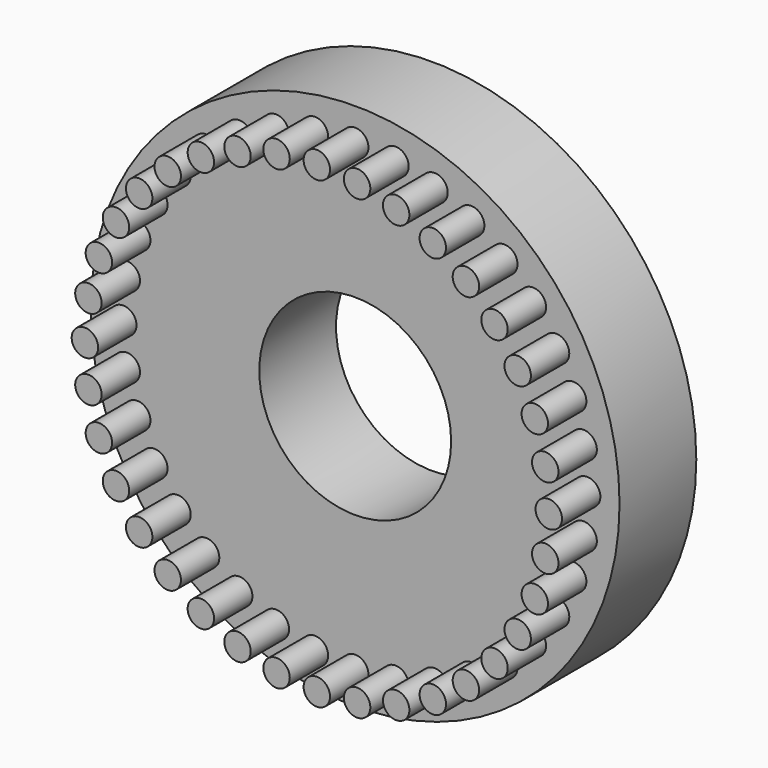
from build123d import *

# Parameters (mm, degrees)
F0_R     = 35
F1_DEPTH = 12.7
F2_R     = 1.75
F3_DEPTH = 6.35
F4_R     = 12.7
F5_DEPTH = 12.701


with BuildPart() as f1:
    # F0 (on Front) → F1 (new body)
    with BuildSketch(Plane.XZ):
        Circle(F0_R)
    extrude(amount=F1_DEPTH)

    # F2 (on face) → F3 (join)
    with BuildSketch(Plane.XZ.offset(12.7)):
        with Locations((-30.708063, 0)):
            Circle(F2_R)
        with Locations((-30.241539, 5.332399)):
            Circle(F2_R)
        with Locations((-28.856141, 10.502776)):
            Circle(F2_R)
        with Locations((-26.593963, 15.354032)):
            Circle(F2_R)
        with Locations((-23.523741, 19.738763)):
            Circle(F2_R)
        with Locations((-19.738763, 23.523741)):
            Circle(F2_R)
        with Locations((-15.354032, 26.593963)):
            Circle(F2_R)
        with Locations((-10.502776, 28.856141)):
            Circle(F2_R)
        with Locations((-5.332399, 30.241539)):
            Circle(F2_R)
        with Locations((0, 30.708063)):
            Circle(F2_R)
        with Locations((5.332399, 30.241539)):
            Circle(F2_R)
        with Locations((10.502776, 28.856141)):
            Circle(F2_R)
        with Locations((15.354032, 26.593963)):
            Circle(F2_R)
        with Locations((19.738763, 23.523741)):
            Circle(F2_R)
        with Locations((23.523741, 19.738763)):
            Circle(F2_R)
        with Locations((26.593963, 15.354032)):
            Circle(F2_R)
        with Locations((28.856141, 10.502776)):
            Circle(F2_R)
        with Locations((30.241539, 5.332399)):
            Circle(F2_R)
        with Locations((30.708063, 0)):
            Circle(F2_R)
        with Locations((30.241539, -5.332399)):
            Circle(F2_R)
        with Locations((28.856141, -10.502776)):
            Circle(F2_R)
        with Locations((26.593963, -15.354032)):
            Circle(F2_R)
        with Locations((23.523741, -19.738763)):
            Circle(F2_R)
        with Locations((19.738763, -23.523741)):
            Circle(F2_R)
        with Locations((15.354032, -26.593963)):
            Circle(F2_R)
        with Locations((10.502776, -28.856141)):
            Circle(F2_R)
        with Locations((5.332399, -30.241539)):
            Circle(F2_R)
        with Locations((0, -30.708063)):
            Circle(F2_R)
        with Locations((-5.332399, -30.241539)):
            Circle(F2_R)
        with Locations((-10.502776, -28.856141)):
            Circle(F2_R)
        with Locations((-15.354032, -26.593963)):
            Circle(F2_R)
        with Locations((-19.738763, -23.523741)):
            Circle(F2_R)
        with Locations((-23.523741, -19.738763)):
            Circle(F2_R)
        with Locations((-26.593963, -15.354032)):
            Circle(F2_R)
        with Locations((-28.856141, -10.502776)):
            Circle(F2_R)
        with Locations((-30.241539, -5.332399)):
            Circle(F2_R)
    extrude(amount=F3_DEPTH)

    # F4 (on face) → F5 (cut, through all)
    with BuildSketch(Plane.XZ.offset(12.7)):
        Circle(F4_R)
    extrude(amount=-F5_DEPTH, mode=Mode.SUBTRACT)


solid = f1.part
